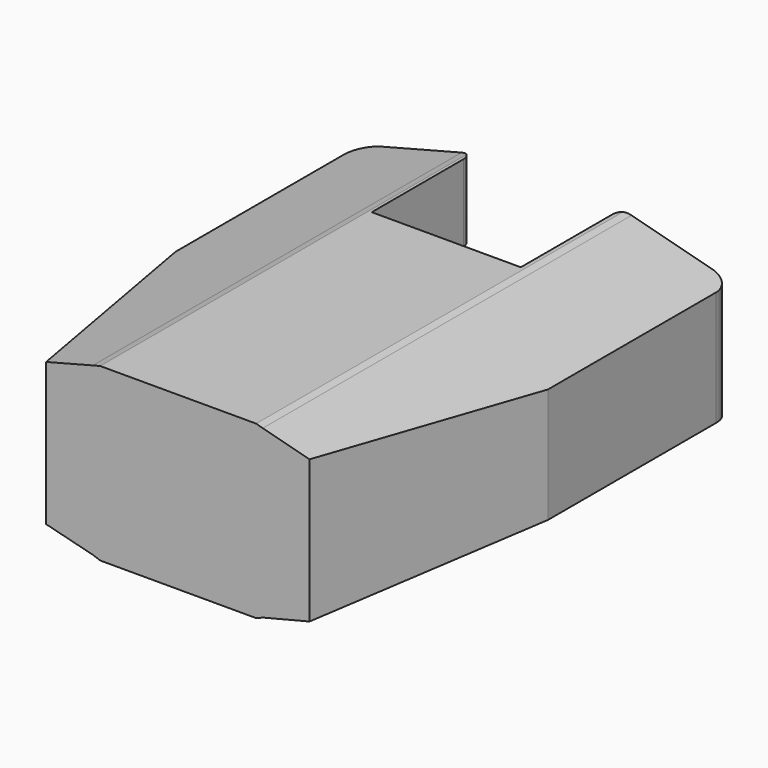
from build123d import *

# Parameters (mm, degrees)
PAD_DEPTH       = 12
POCKET_DEPTH    = 62
SKETCH019_W     = 31
SKETCH019_H     = 21.780884
POCKET002_DEPTH = 17
SKETCH020_R     = 2
POCKET003_DEPTH = 4


with BuildPart() as part:
    # Sketch010 → Pad (new body, symmetric)
    with BuildSketch(Plane.XY):
        with BuildLine():
            Line((12.639868, 59.984547), (-12.639868, 59.984547))
            Line((-12.639868, 59.984547), (-17.867889, 82.058411))
            Line((-17.867889, 82.058411), (-17.867889, 102.222236))
            ThreePointArc((-15.867889, 104.222236), (-17.282103, 103.63645), (-17.867889, 102.222236))
            Line((-15.867889, 104.222236), (-8.154342, 104.222236))
            ThreePointArc((-7.154342, 103.222236), (-7.447235, 103.929343), (-8.154342, 104.222236))
            Line((-7.154342, 103.222236), (-7.154342, 92.189331))
            Line((-7.154342, 92.189331), (7.154342, 92.189331))
            Line((7.154342, 92.189331), (7.154342, 103.222236))
            ThreePointArc((8.154342, 104.222236), (7.447235, 103.929343), (7.154342, 103.222236))
            Line((8.154342, 104.222236), (15.867889, 104.222236))
            ThreePointArc((17.867889, 102.222236), (17.282103, 103.63645), (15.867889, 104.222236))
            Line((17.867889, 102.222236), (17.867889, 82.058411))
            Line((17.867889, 82.058411), (12.639868, 59.984547))
        make_face()
    extrude(amount=PAD_DEPTH, both=True)

    # Sketch011 → Pocket (cut)
    with BuildSketch(Plane.XZ.offset(-54)):
        Polygon((0, 13.813917), (-22.117895, 13.813917), (-22.117895, -0.189388), (-22.117895, -17.743416), (0, -17.743416), (22.658901, -17.743416), (22.658901, -0.111897), (22.658901, 13.813917), align=None)
        Polygon((-18.596464, 0), (-18.596464, 5.287208), (-8.154342, 8), (-7.443202, 8.179805), (0, 8.179805), (7.519913, 8.179805), (8.154342, 8), (18.531284, 5.287208), (18.531284, -0.112287), (18.531284, -5.399495), (8.154342, -8), (7.554242, -8.253323), (0.11104, -8.253323), (-7.443202, -8.253323), (-8.154342, -8), (-18.596464, -5.371119), align=None, mode=Mode.SUBTRACT)
    extrude(amount=-POCKET_DEPTH, mode=Mode.SUBTRACT)

    # Sketch019 → Pocket002 (cut)
    with BuildSketch(Plane.XY.offset(0.8)):
        with Locations((0.01352, 95.005211)):
            Rectangle(SKETCH019_W, SKETCH019_H)
    extrude(amount=-POCKET002_DEPTH, mode=Mode.SUBTRACT)

    # Sketch020 → Pocket003 (cut)
    with BuildSketch(Plane.XY.offset(0.8)):
        with Locations((-11.1, 94.9)):
            Circle(SKETCH020_R)
        with Locations((11.3, 94.9)):
            Circle(SKETCH020_R)
        with Locations((0.013518, 88.3)):
            Circle(SKETCH020_R)
    extrude(amount=POCKET003_DEPTH, mode=Mode.SUBTRACT)


solid = part.part
